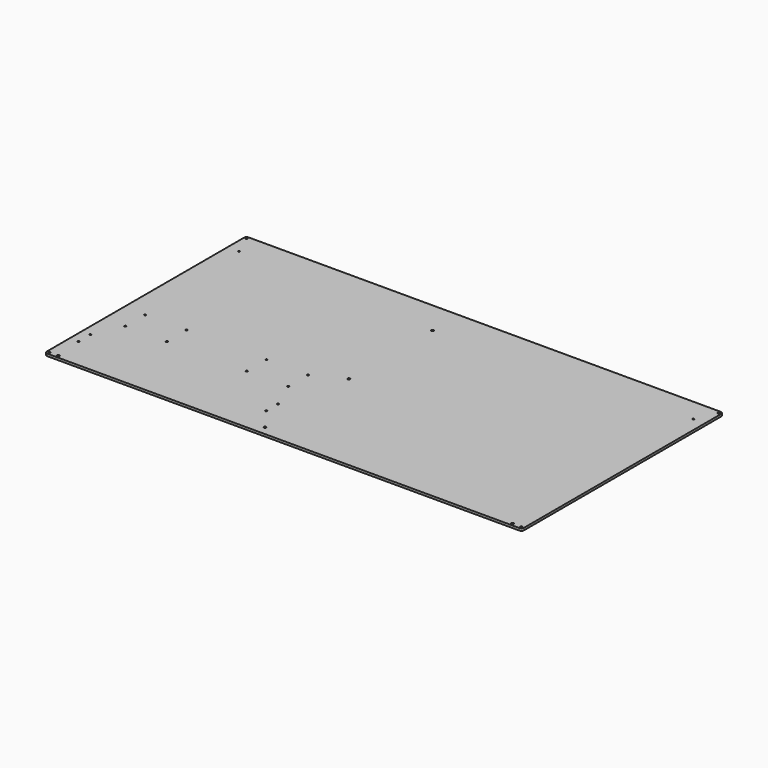
from build123d import *

# Parameters (mm, degrees)
F0_W     = 717.448502
F0_H     = 378.451567
F1_DEPTH = 3.41884
F2_R     = 3.96875
F3_R     = 1.35255
F3_R_2   = 1.8288
F4_DEPTH = 3.41884


with BuildPart() as f1:
    # F0 (on Top) → F1 (new body)
    with BuildSketch(Plane.XY):
        with Locations((-358.724251, -189.225783)):
            Rectangle(F0_W, F0_H)
    extrude(amount=F1_DEPTH)

    # F2
    f2_edges = [f1.edges().sort_by_distance(p)[0] for p in [
        (-717.448502, 0, 1.70942),
        (-717.448502, -378.451567, 1.70942),
        (0, -378.451567, 1.70942),
        (0, 0, 1.70942),
    ]]
    fillet(f2_edges, radius=F2_R)

    # F3 (on face) → F4 (cut, through all)
    with BuildSketch(Plane.XY.offset(3.41884)):
        with Locations((-713.479752, -3.96875)):
            Circle(F3_R)
        with Locations((-3.96875, -3.96875)):
            Circle(F3_R)
        with Locations((-713.479752, -374.482817)):
            Circle(F3_R)
        with Locations((-3.96875, -374.482817)):
            Circle(F3_R)
        with Locations((-704.147131, -309.107129)):
            Circle(F3_R)
        with Locations((-704.147131, -331.394638)):
            Circle(F3_R)
        with Locations((-422.20327, -331.394638)):
            Circle(F3_R)
        with Locations((-422.20327, -309.107129)):
            Circle(F3_R)
        with Locations((-17.15643, -374.482817)):
            Circle(F3_R_2)
        with Locations((-700.292072, -374.482817)):
            Circle(F3_R_2)
        with Locations((-440.775923, -266.753932)):
            Circle(F3_R)
        with Locations((-440.775923, -229.701708)):
            Circle(F3_R)
        with Locations((-503.073208, -229.701708)):
            Circle(F3_R)
        with Locations((-503.073208, -266.753932)):
            Circle(F3_R)
        with Locations((-700.292072, -34.632519)):
            Circle(F3_R)
        with Locations((-17.15643, -34.632519)):
            Circle(F3_R)
        with Locations((-623.277194, -266.753932)):
            Circle(F3_R)
        with Locations((-623.277194, -229.701708)):
            Circle(F3_R)
        with Locations((-685.574478, -229.701708)):
            Circle(F3_R)
        with Locations((-685.574478, -266.753932)):
            Circle(F3_R)
        with Locations((-396.99819, -49.956339)):
            Circle(F3_R_2)
        with Locations((-396.99819, -364.957817)):
            Circle(F3_R_2)
        with Locations((-396.99819, -207.457078)):
            Circle(F3_R_2)
    extrude(amount=-F4_DEPTH, mode=Mode.SUBTRACT)


solid = f1.part
